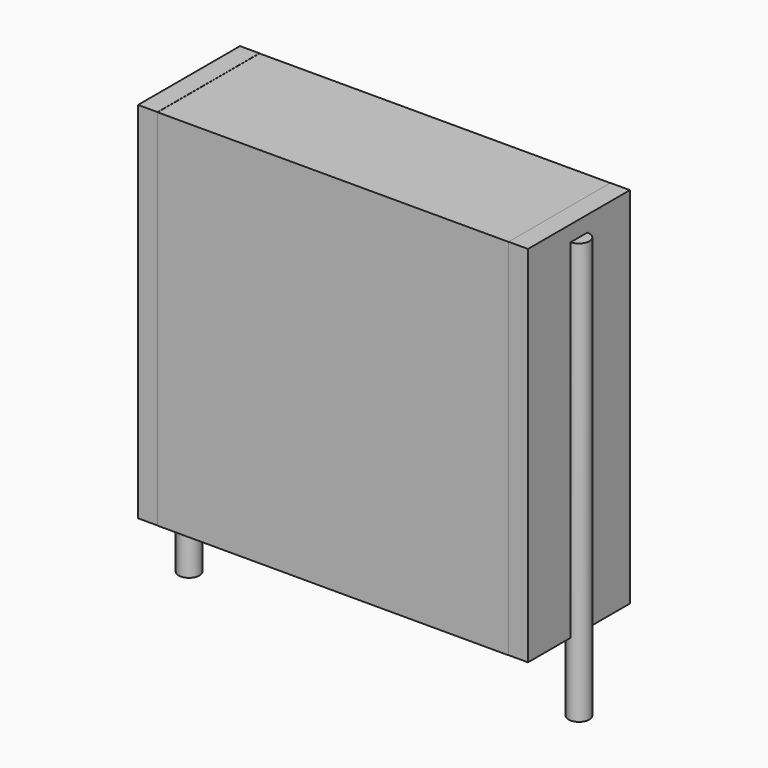
from build123d import *

# Parameters (mm, degrees)
SKETCH_W          = 13.5
SKETCH_H          = 4.9
PAD_DEPTH         = 14
SKETCH001_R       = 0.4
PAD001_DEPTH      = 13
PAD001_DEPTH_BACK = 3.2
SKETCH002_W       = 0.75
SKETCH002_H       = 4.9
PAD002_DEPTH      = 14


with BuildPart() as pad:
    # Sketch → Pad (new body)
    with BuildSketch(Plane.XY.offset(0.1)):
        with Locations((7.5, 0)):
            Rectangle(SKETCH_W, SKETCH_H)
    extrude(amount=PAD_DEPTH)


with BuildPart() as pad001:
    # Sketch001 → Pad001 (new body, two sides)
    with BuildSketch(Plane.XY.offset(0.5)) as pad001_sk:
        Circle(SKETCH001_R)
        with Locations((15, 0)):
            Circle(SKETCH001_R)
    extrude(amount=PAD001_DEPTH)
    extrude(pad001_sk.sketch, amount=-PAD001_DEPTH_BACK)


with BuildPart() as pad002:
    # Sketch002 → Pad002 (new body)
    with BuildSketch(Plane.XY.offset(0.105)):
        with Locations((0.375, 0)):
            Rectangle(SKETCH002_W, SKETCH002_H)
        with Locations((14.625, 0)):
            Rectangle(SKETCH002_W, SKETCH002_H)
    extrude(amount=PAD002_DEPTH)


solid = Compound([pad.part, pad001.part, pad002.part])
